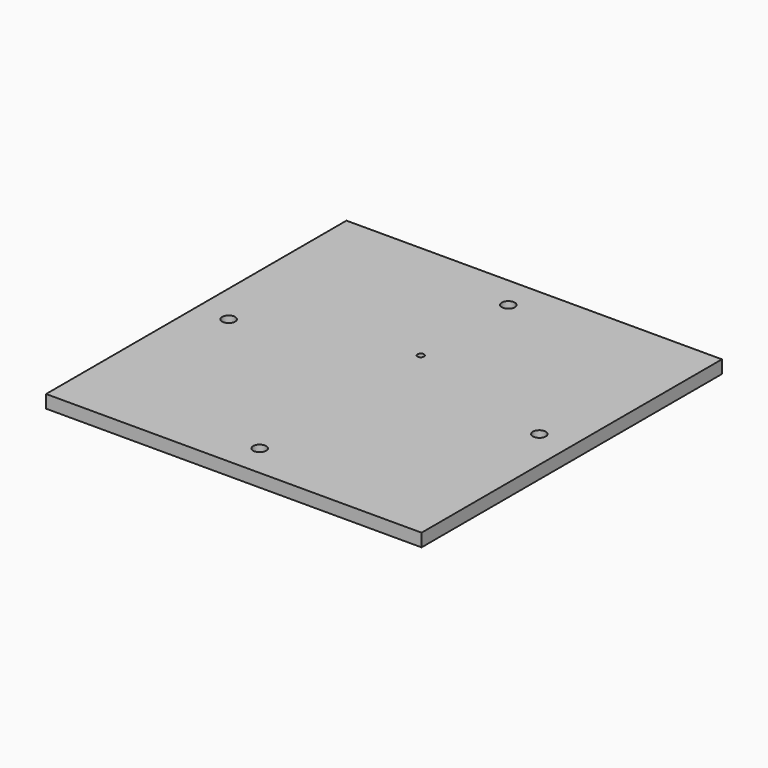
from build123d import *

# Parameters (mm, degrees)
SKETCH105_W     = 290
SKETCH105_H     = 290
PAD053_DEPTH    = 10
SKETCH106_R     = 5
SKETCH106_R_2   = 2.5
POCKET048_DEPTH = 10.001
SKETCH107_W     = 270
SKETCH107_H     = 270
SKETCH107_W_2   = 260
SKETCH107_H_2   = 260
PAD054_DEPTH    = 5


with BuildPart() as part:
    # Sketch105 → Pad053 (new body)
    with BuildSketch(Plane.XY):
        Rectangle(SKETCH105_W, SKETCH105_H)
    extrude(amount=-PAD053_DEPTH)

    # Sketch106 (on Face5 of Pad053) → Pocket048 (cut, through all)
    with BuildSketch(Plane.XY):
        with Locations((-120, 0)):
            Circle(SKETCH106_R)
        with Locations((0, 120)):
            Circle(SKETCH106_R)
        with Locations((120, 0)):
            Circle(SKETCH106_R)
        with Locations((0, -120)):
            Circle(SKETCH106_R)
        with Locations((0, 35.5)):
            Circle(SKETCH106_R_2)
    extrude(amount=-POCKET048_DEPTH, mode=Mode.SUBTRACT)

    # Sketch107 (on Face5 of Pocket048) → Pad054 (join)
    with BuildSketch(Plane(origin=(0, 0, -10), x_dir=(1, 0, 0), z_dir=(0, 0, -1))):
        Rectangle(SKETCH107_W, SKETCH107_H)
        Rectangle(SKETCH107_W_2, SKETCH107_H_2, mode=Mode.SUBTRACT)
    extrude(amount=PAD054_DEPTH)


with BuildPart() as part_1:
    # Body028 placement: moved
    add(part.part.moved(Location((0, 0, -10))))


solid = part_1.part
